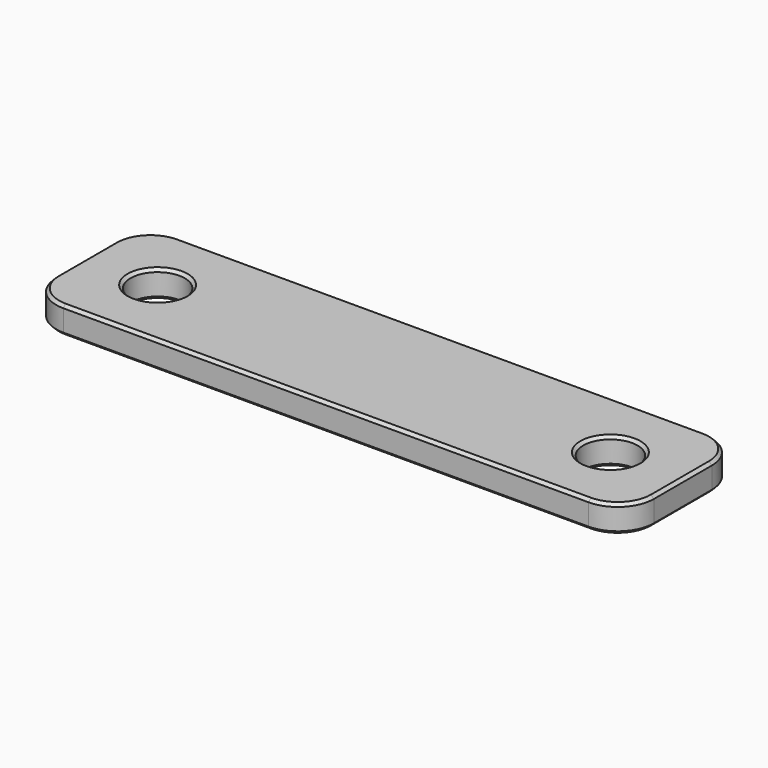
from build123d import *

# Parameters (mm, degrees)
F0_R     = 9.525
F1_DEPTH = 9.525
F2_SIZE  = 1.016


with BuildPart() as f1:
    # F0 (on Top) → F1 (new body)
    with BuildSketch(Plane.XY):
        with BuildLine():
            Line((92.075, 25.4), (-92.075, 25.4))
            ThreePointArc((-92.075, 25.4), (-101.055256, 21.680256), (-104.775, 12.7))
            Line((-104.775, 12.7), (-104.775, -12.7))
            ThreePointArc((-104.775, -12.7), (-101.055256, -21.680256), (-92.075, -25.4))
            Line((-92.075, -25.4), (92.075, -25.4))
            ThreePointArc((92.075, -25.4), (101.055256, -21.680256), (104.775, -12.7))
            Line((104.775, -12.7), (104.775, 12.7))
            ThreePointArc((104.775, 12.7), (101.055256, 21.680256), (92.075, 25.4))
        make_face()
        with Locations((-79.375, 0)):
            Circle(F0_R, mode=Mode.SUBTRACT)
        with Locations((79.375, 0)):
            Circle(F0_R, mode=Mode.SUBTRACT)
    extrude(amount=F1_DEPTH)

    # F2
    f2_edges = [f1.edges().sort_by_distance(p)[0] for p in [
        (0, 25.4, 9.525),
        (-101.055256, 21.680256, 9.525),
        (-104.775, 0, 9.525),
        (-101.055256, -21.680256, 9.525),
        (0, -25.4, 9.525),
        (101.055256, -21.680256, 9.525),
        (104.775, 0, 9.525),
        (101.055256, 21.680256, 9.525),
        (-88.9, 0, 9.525),
        (69.85, 0, 9.525),
        (0, 25.4, 0),
        (-101.055256, 21.680256, 0),
        (-104.775, 0, 0),
        (-101.055256, -21.680256, 0),
        (0, -25.4, 0),
        (101.055256, -21.680256, 0),
        (104.775, 0, 0),
        (101.055256, 21.680256, 0),
        (-88.9, 0, 0),
        (69.85, 0, 0),
    ]]
    chamfer(f2_edges, length=F2_SIZE)


solid = f1.part
